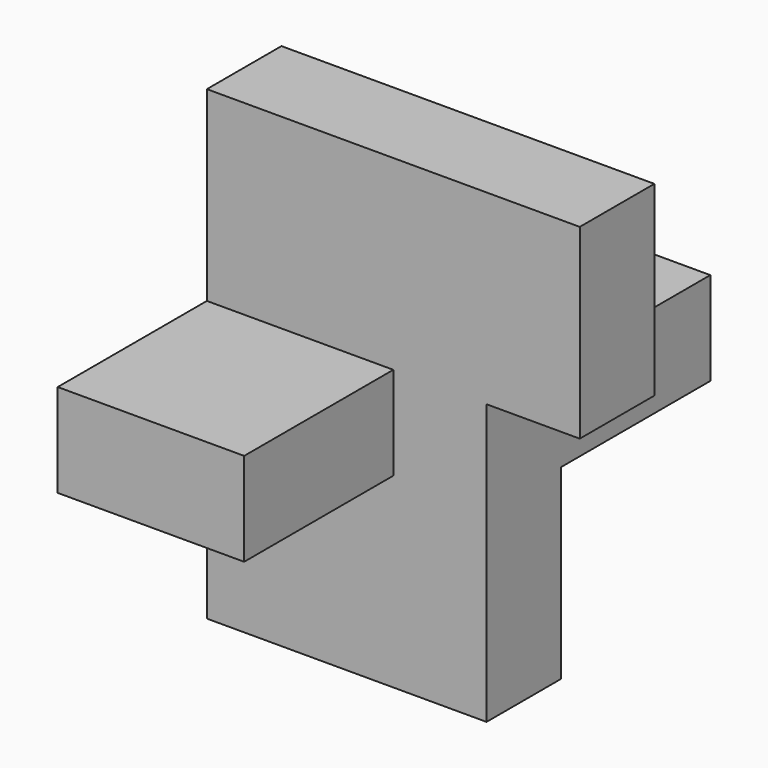
from build123d import *

# Parameters (mm, degrees)
F0_W     = 6.35
F0_H     = 12.7
F1_DEPTH = 19.05
F2_W     = 6.35
F2_H     = 12.7
F3_DEPTH = 6.35
F4_W     = 12.7
F4_H     = 6.35
F5_DEPTH = 6.35


with BuildPart() as f1:
    # F0 (on Right) → F1 (new body)
    with BuildSketch(Plane.YZ):
        Polygon((-27.807808, 12.414332), (-21.457808, 12.414332), (-21.457808, 25.114332), (-8.757808, 25.114332), (-8.757808, 31.464332), (-21.457808, 31.464332), (-27.807808, 31.464332), (-40.507808, 31.464332), (-40.507808, 25.114332), (-27.807808, 25.114332), align=None)
        with Locations((-24.632808, 37.814332)):
            Rectangle(F0_W, F0_H)
    extrude(amount=F1_DEPTH)

    # F2 (on face) → F3 (join)
    with BuildSketch(Plane.YZ.offset(19.05)):
        with Locations((-24.632808, 37.814332)):
            Rectangle(F2_W, F2_H)
    extrude(amount=F3_DEPTH)

    # F4 (on face) → F5 (cut)
    with BuildSketch(Plane.YZ.offset(19.05)):
        with Locations((-34.157808, 28.289332)):
            Rectangle(F4_W, F4_H)
    extrude(amount=-F5_DEPTH, mode=Mode.SUBTRACT)


solid = f1.part
